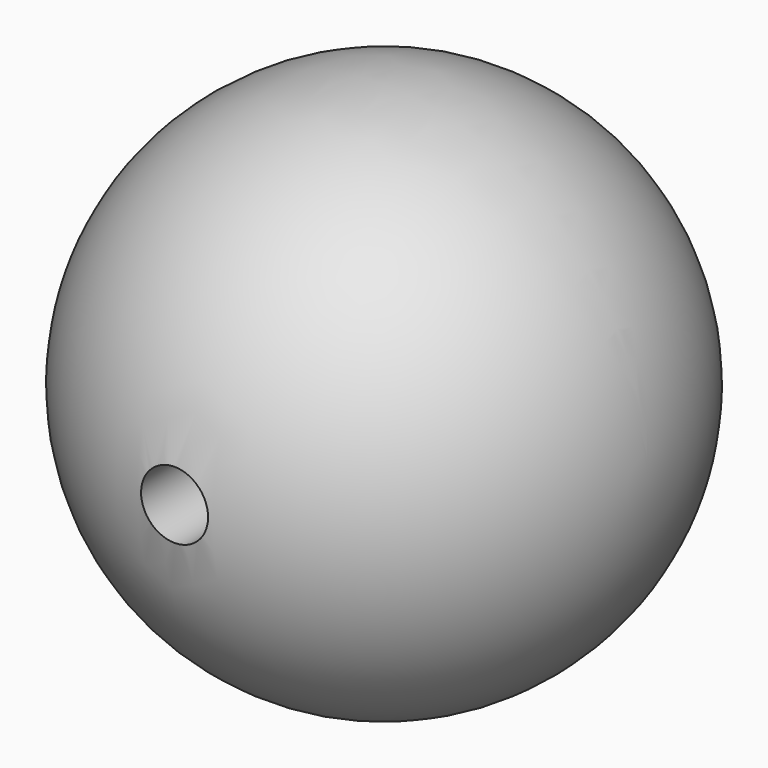
from build123d import *

# Parameters (mm, degrees)
F2_R          = 2.54
F3_DEPTH      = 20.001011
F3_DEPTH_BACK = 20.001011


with BuildPart() as f1:
    # F0 (on Front) → F1 (revolve)
    with BuildSketch(Plane.XZ):
        with BuildLine():
            Line((-20.000011, 0), (20.000011, 0))
            ThreePointArc((20.000011, 0), (0, 20.000011), (-20.000011, 0))
        make_face()
    revolve(axis=Axis((0, 0, 0), (-1, 0, 0)))

    # F2 (on Front) → F3 (cut, two sides)
    with BuildSketch(Plane.XZ) as f3_sk:
        Circle(F2_R)
    extrude(amount=F3_DEPTH, mode=Mode.SUBTRACT)
    extrude(f3_sk.sketch, amount=-F3_DEPTH_BACK, mode=Mode.SUBTRACT)


solid = f1.part
